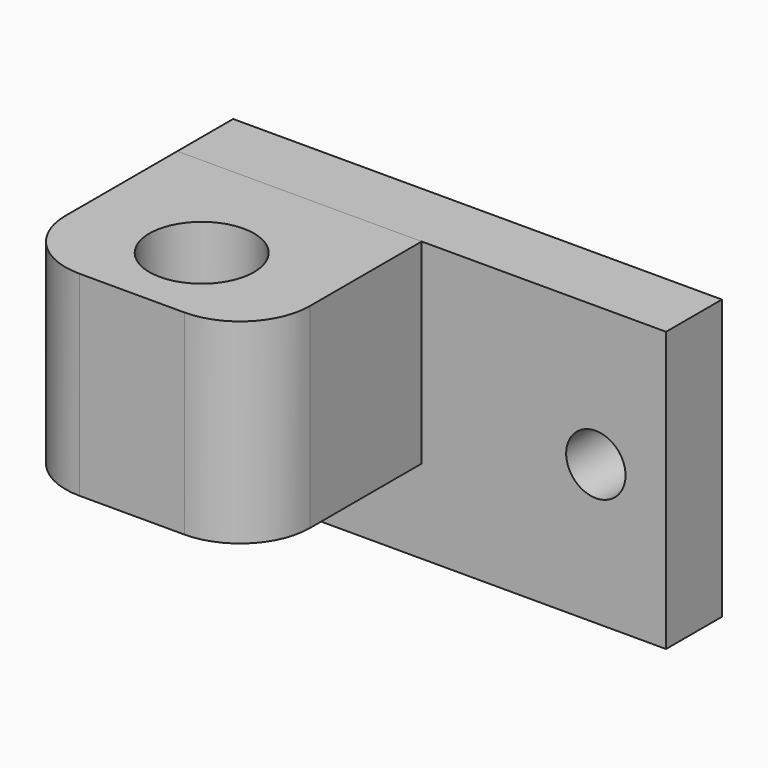
from build123d import *

# Parameters (mm, degrees)
F0_W             = 70
F0_H             = 40
F0_R             = 4.25
F1_DEPTH         = 10
F2_W             = 35
F2_H             = 28
F2_R             = 2.5
F3_DEPTH         = 30
F4_R             = 7.5
F5_DEPTH         = 40.001
F7_D             = 5
F7_DEPTH         = 20
F7_CSINK_D       = 10
F7_CSINK_ANGLE   = 90
F7_TIP           = 1.5021515476
F7_2_D           = 5
F7_2_DEPTH       = 20
F7_2_CSINK_D     = 10
F7_2_CSINK_ANGLE = 90
F7_2_TIP         = 1.5021515476
F8_R             = 10


with BuildPart() as f1:
    # F0 (on Front) → F1 (new body)
    with BuildSketch(Plane.XZ):
        with Locations((35, 20)):
            Rectangle(F0_W, F0_H)
        with Locations((59.9450543523, 20)):
            Circle(F0_R, mode=Mode.SUBTRACT)
    extrude(amount=F1_DEPTH)

    # F7
    with Locations(Plane(origin=(0, 0, 0), x_dir=(-1, 0, 0), z_dir=(0, 1, 0))):
        with Locations((-29, 26), (-6, 26)):
            CounterSinkHole(F7_D / 2, F7_CSINK_D / 2, depth=F7_DEPTH, counter_sink_angle=F7_CSINK_ANGLE)
            with Locations((0, 0, -(F7_DEPTH + F7_TIP / 2))):  # 118° drill point
                Cone(0, F7_D / 2, F7_TIP, mode=Mode.SUBTRACT)


with BuildPart() as f3:
    # F2 (on face) → F3 (new body)
    with BuildSketch(Plane.XZ.offset(10)):
        with Locations((17.5, 26)):
            Rectangle(F2_W, F2_H)
        with Locations((5, 26)):
            Circle(F2_R, mode=Mode.SUBTRACT)
        with Locations((30, 26)):
            Circle(F2_R, mode=Mode.SUBTRACT)
        with Locations((5, 26)):
            Circle(F2_R)
        with Locations((30, 26)):
            Circle(F2_R)
    extrude(amount=F3_DEPTH)

    # F4 (on face) → F5 (cut, through all)
    with BuildSketch(Plane.XY.offset(40)):
        with Locations((17.5, -27.5)):
            Circle(F4_R)
    extrude(amount=-F5_DEPTH, mode=Mode.SUBTRACT)

    # F7#2
    with Locations(Plane(origin=(0, 0, 0), x_dir=(-1, 0, 0), z_dir=(0, 1, 0))):
        with Locations((-29, 26), (-6, 26)):
            CounterSinkHole(F7_2_D / 2, F7_2_CSINK_D / 2, depth=F7_2_DEPTH, counter_sink_angle=F7_2_CSINK_ANGLE)
            with Locations((0, 0, -(F7_2_DEPTH + F7_2_TIP / 2))):  # 118° drill point
                Cone(0, F7_2_D / 2, F7_2_TIP, mode=Mode.SUBTRACT)

    # F8
    f8_edges = [f3.edges().sort_by_distance(p)[0] for p in [
        (35, -40, 26),
        (0, -40, 26),
    ]]
    fillet(f8_edges, radius=F8_R)


solid = Compound([f1.part, f3.part])
